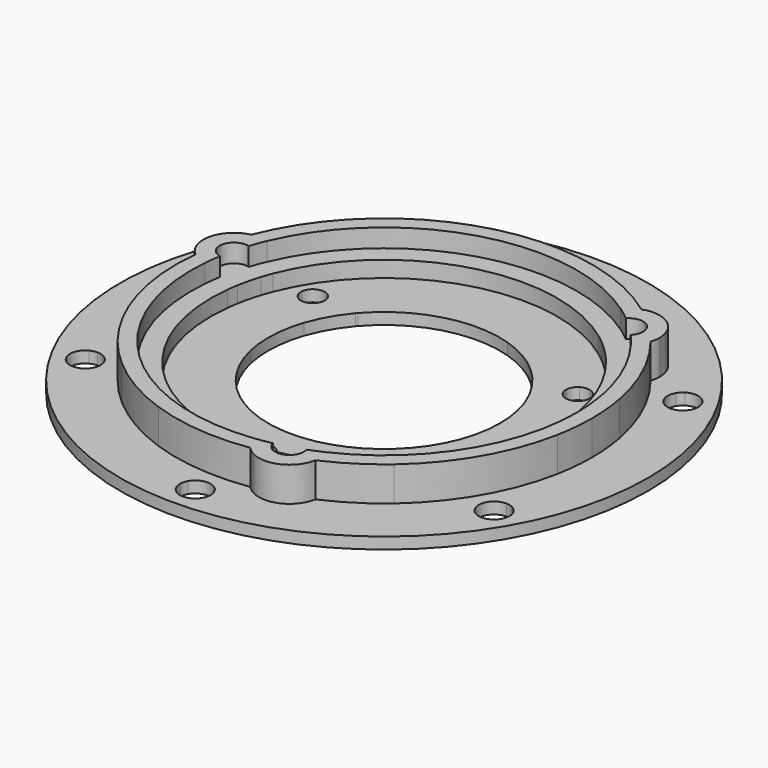
from build123d import *

# Parameters (mm, degrees)
F1_DEPTH = 1.5
F2_DEPTH = 3.6
F3_DEPTH = 6
F0_R     = 34.5
F4_DEPTH = 1.5


with BuildPart() as f1:
    # F0 (on Top) → F1 (new body)
    with BuildSketch(Plane.XY):
        with BuildLine():
            ThreePointArc((18.0429103508, 8.628637556), (19.504591857, 4.423900597), (20, 0))
            ThreePointArc((20, 0), (16.8844767064, -10.7198155932), (8.5085553649, -18.0998476679))
            Line((8.5085553649, -18.0998476679), (7.9590402698, -20.3249343561))
            ThreePointArc((7.9590402698, -20.3249343561), (8.5158791699, -20.5066268811), (9.0402136666, -20.767692141))
            ThreePointArc((9.0402136666, -20.767692141), (18.9444363805, -12.4149438269), (22.65, 0))
            ThreePointArc((22.65, 0), (21.3684761256, 7.5107075612), (17.6689202587, 14.1715121597))
            ThreePointArc((17.6689202587, 14.1715121597), (17.0833337399, 14.1845568281), (16.5059305148, 14.2829806566))
            Line((16.5059305148, 14.2829806566), (15.9564154197, 12.0578939684))
            ThreePointArc((15.9564154197, 12.0578939684), (16.2295386456, 11.6876890509), (16.4940744989, 11.311299944))
            ThreePointArc((16.4940744989, 11.311299944), (18.0693498333, 11.357105752), (18.8705080757, 10))
            ThreePointArc((18.8705080757, 10), (18.6475769372, 9.199132822), (18.0429103508, 8.628637556))
        make_face()
        with BuildLine():
            ThreePointArc((-16.4940744989, 11.311299944), (-3.5994314235, 19.6734362384), (11.4206502026, 16.4185489295))
            Line((11.4206502026, 16.4185489295), (13.6223893478, 17.0551982414))
            ThreePointArc((13.6223893478, 17.0551982414), (13.50132024, 17.6282811373), (13.4652421387, 18.2129007614))
            ThreePointArc((13.4652421387, 18.2129007614), (-6.2916666667, 21.7586173861), (-21.1073496697, 8.2159777216))
            ThreePointArc((-21.1073496697, 8.2159777216), (-20.8258534245, 7.7023225861), (-20.6223893478, 7.1530648107))
            Line((-20.6223893478, 7.1530648107), (-18.4206502026, 7.7897141226))
            ThreePointArc((-18.4206502026, 7.7897141226), (-18.2366049524, 8.2113482334), (-18.0429103508, 8.628637556))
            ThreePointArc((-18.0429103508, 8.628637556), (-18.6628474516, 10.775), (-16.4940744989, 11.311299944))
        make_face()
        with BuildLine():
            Line((4.5809919289, 14.4408106749), (11.4206502026, 16.4185489295))
            ThreePointArc((11.4206502026, 16.4185489295), (-3.5994314235, 19.6734362384), (-16.4940744989, 11.311299944))
            ThreePointArc((-16.4940744989, 11.311299944), (-15.9634023237, 10.7488417577), (-15.7705080757, 10))
            Line((-15.7705080757, 10), (-11.380795227, 10))
            ThreePointArc((-11.380795227, 10), (-4.0607303636, 14.595648972), (4.5809919289, 14.4408106749))
        make_face()
        with BuildLine():
            Line((-21.5814296176, 3.2697361147), (-19.9292055675, 1.6812987385))
            ThreePointArc((-19.9292055675, 1.6812987385), (-19.4166434799, 4.7952013489), (-18.4206502026, 7.7897141226))
            Line((-18.4206502026, 7.7897141226), (-20.6223893478, 7.1530648107))
            ThreePointArc((-20.6223893478, 7.1530648107), (-20.5045209524, 6.6030571894), (-20.4649707846, 6.0419536996))
            ThreePointArc((-20.4649707846, 6.0419536996), (-20.7545688746, 4.5476586598), (-21.5814296176, 3.2697361147))
        make_face()
        with BuildLine():
            Line((4.1164588329, -21.4360454672), (2.4642347829, -19.847608091))
            ThreePointArc((2.4642347829, -19.847608091), (2.0070663068, -19.8990372843), (1.5488358519, -19.9399375))
            ThreePointArc((1.5488358519, -19.9399375), (1.5497089356, -19.9699631096), (1.55, -20))
            ThreePointArc((1.55, -20), (-0.0300368904, -21.5497089356), (-1.5488358519, -19.9399375))
            ThreePointArc((-1.5488358519, -19.9399375), (-15.2379798505, -12.9539171711), (-19.9292055675, 1.6812987385))
            Line((-19.9292055675, 1.6812987385), (-21.5814296176, 3.2697361147))
            ThreePointArc((-21.5814296176, 3.2697361147), (-22.0171994099, 2.8783457439), (-22.5054558054, 2.5547913796))
            ThreePointArc((-22.5054558054, 2.5547913796), (-15.6976820743, -16.3280518585), (3.438429411, -22.3874898813))
            ThreePointArc((3.438429411, -22.3874898813), (3.7425196846, -21.8868794141), (4.1164588329, -21.4360454672))
        make_face()
        with BuildLine():
            ThreePointArc((-19.9292055675, 1.6812987385), (-15.2379798505, -12.9539171711), (-1.5488358519, -19.9399375))
            ThreePointArc((-1.5488358519, -19.9399375), (-1.3270688615, -19.199132822), (-0.775, -18.6576606241))
            Line((-0.775, -18.6576606241), (-2.9698564243, -14.8560577819))
            ThreePointArc((-2.9698564243, -14.8560577819), (-10.6098376127, -10.8145201388), (-14.7966048601, -3.2531499524))
            Line((-14.7966048601, -3.2531499524), (-19.9292055675, 1.6812987385))
        make_face()
        with BuildLine():
            Line((-16.384349446, 8.3785256894), (-14.3506516514, 4.8560577819))
            ThreePointArc((-14.3506516514, 4.8560577819), (-13.1963246365, 7.4417414688), (-11.5809919289, 9.7674523773))
            Line((-11.5809919289, 9.7674523773), (-16.384349446, 8.3785256894))
        make_face()
        with BuildLine():
            Line((-11.380795227, 10), (-15.7705080757, 10))
            ThreePointArc((-15.7705080757, 10), (-15.9781686998, 9.225), (-16.5455080757, 8.6576606241))
            Line((-16.5455080757, 8.6576606241), (-16.384349446, 8.3785256894))
            Line((-16.384349446, 8.3785256894), (-11.5809919289, 9.7674523773))
            ThreePointArc((-11.5809919289, 9.7674523773), (-11.4814823498, 9.8842330533), (-11.380795227, 10))
        make_face()
        with BuildLine():
            ThreePointArc((-18.4206502026, 7.7897141226), (-19.4166434799, 4.7952013489), (-19.9292055675, 1.6812987385))
            Line((-19.9292055675, 1.6812987385), (-14.7966048601, -3.2531499524))
            ThreePointArc((-14.7966048601, -3.2531499524), (-15.1271429244, 0.8318935891), (-14.3506516514, 4.8560577819))
            Line((-14.3506516514, 4.8560577819), (-16.384349446, 8.3785256894))
            Line((-16.384349446, 8.3785256894), (-18.4206502026, 7.7897141226))
        make_face()
        with BuildLine():
            ThreePointArc((2.4642347829, -19.847608091), (5.5555555556, -19.2129071842), (8.5085553649, -18.0998476679))
            Line((8.5085553649, -18.0998476679), (10.2156129312, -11.1876607224))
            ThreePointArc((10.2156129312, -11.1876607224), (6.8431304808, -13.5164368538), (2.9698564243, -14.8560577819))
            Line((2.9698564243, -14.8560577819), (0.9361586297, -18.3785256894))
            Line((0.9361586297, -18.3785256894), (2.4642347829, -19.847608091))
        make_face()
        with BuildLine():
            Line((-2.6683659245, -14.9131594001), (0.9361586297, -18.3785256894))
            Line((0.9361586297, -18.3785256894), (2.9698564243, -14.8560577819))
            ThreePointArc((2.9698564243, -14.8560577819), (0.1534251579, -15.1492231062), (-2.6683659245, -14.9131594001))
        make_face()
        with BuildLine():
            Line((0.775, -18.6576606241), (0.9361586297, -18.3785256894))
            Line((0.9361586297, -18.3785256894), (-2.6683659245, -14.9131594001))
            ThreePointArc((-2.6683659245, -14.9131594001), (-2.8192557462, -14.8853719147), (-2.9698564243, -14.8560577819))
            Line((-2.9698564243, -14.8560577819), (-0.775, -18.6576606241))
            ThreePointArc((-0.775, -18.6576606241), (0, -18.45), (0.775, -18.6576606241))
        make_face()
        with BuildLine():
            ThreePointArc((1.5488358519, -19.9399375), (2.0070663068, -19.8990372843), (2.4642347829, -19.847608091))
            Line((2.4642347829, -19.847608091), (0.9361586297, -18.3785256894))
            Line((0.9361586297, -18.3785256894), (0.775, -18.6576606241))
            ThreePointArc((0.775, -18.6576606241), (1.3270688615, -19.199132822), (1.5488358519, -19.9399375))
        make_face()
        with BuildLine():
            Line((15.4481908163, 10), (15.9564154197, 12.0578939684))
            ThreePointArc((15.9564154197, 12.0578939684), (13.8610879243, 14.4177058354), (11.4206502026, 16.4185489295))
            Line((11.4206502026, 16.4185489295), (4.5809919289, 14.4408106749))
            ThreePointArc((4.5809919289, 14.4408106749), (8.2840124436, 12.6845432647), (11.380795227, 10))
            Line((11.380795227, 10), (15.4481908163, 10))
        make_face()
        with BuildLine():
            ThreePointArc((8.5085553649, -18.0998476679), (16.8844767064, -10.7198155932), (20, 0))
            ThreePointArc((20, 0), (19.504591857, 4.423900597), (18.0429103508, 8.628637556))
            ThreePointArc((18.0429103508, 8.628637556), (17.2904711853, 8.4502910644), (16.5455080757, 8.6576606241))
            Line((16.5455080757, 8.6576606241), (14.3506516514, 4.8560577819))
            ThreePointArc((14.3506516514, 4.8560577819), (14.9488272536, 2.4607039117), (15.15, 0))
            ThreePointArc((15.15, 0), (13.8616203221, -6.1137535153), (10.2156129312, -11.1876607224))
            Line((10.2156129312, -11.1876607224), (8.5085553649, -18.0998476679))
        make_face()
        with BuildLine():
            Line((14.2493578534, 5.1457070229), (15.4481908163, 10))
            Line((15.4481908163, 10), (11.380795227, 10))
            ThreePointArc((11.380795227, 10), (13.0428994786, 7.7074816374), (14.2493578534, 5.1457070229))
        make_face()
        with BuildLine():
            Line((14.3506516514, 4.8560577819), (16.5455080757, 8.6576606241))
            ThreePointArc((16.5455080757, 8.6576606241), (15.9781686998, 9.225), (15.7705080757, 10))
            Line((15.7705080757, 10), (15.4481908163, 10))
            Line((15.4481908163, 10), (14.2493578534, 5.1457070229))
            ThreePointArc((14.2493578534, 5.1457070229), (14.300738096, 5.0011388614), (14.3506516514, 4.8560577819))
        make_face()
        with BuildLine():
            ThreePointArc((15.7705080757, 10), (15.9634023237, 10.7488417577), (16.4940744989, 11.311299944))
            ThreePointArc((16.4940744989, 11.311299944), (16.2295386456, 11.6876890509), (15.9564154197, 12.0578939684))
            Line((15.9564154197, 12.0578939684), (15.4481908163, 10))
            Line((15.4481908163, 10), (15.7705080757, 10))
        make_face()
        with BuildLine():
            ThreePointArc((-16.5455080757, 8.6576606241), (-17.2904711853, 8.4502910644), (-18.0429103508, 8.628637556))
            ThreePointArc((-18.0429103508, 8.628637556), (-18.2366049524, 8.2113482334), (-18.4206502026, 7.7897141226))
            Line((-18.4206502026, 7.7897141226), (-16.384349446, 8.3785256894))
            Line((-16.384349446, 8.3785256894), (-16.5455080757, 8.6576606241))
        make_face()
        with BuildLine():
            ThreePointArc((-22.3008890796, 3.9614197276), (-22.4142094734, 3.259710675), (-22.5054558054, 2.5547913796))
            ThreePointArc((-22.5054558054, 2.5547913796), (-22.0171994099, 2.8783457439), (-21.5814296176, 3.2697361147))
            Line((-21.5814296176, 3.2697361147), (-22.3008890796, 3.9614197276))
        make_face()
        with BuildLine():
            ThreePointArc((-21.1073496697, 8.2159777216), (-21.3547575081, 7.5496246113), (-21.581134659, 6.875836446))
            Line((-21.581134659, 6.875836446), (-20.6223893478, 7.1530648107))
            ThreePointArc((-20.6223893478, 7.1530648107), (-20.8258534245, 7.7023225861), (-21.1073496697, 8.2159777216))
        make_face()
        with BuildLine():
            ThreePointArc((-21.581134659, 6.875836446), (-21.9893487409, 5.4305655276), (-22.3008890796, 3.9614197276))
            Line((-22.3008890796, 3.9614197276), (-21.5814296176, 3.2697361147))
            ThreePointArc((-21.5814296176, 3.2697361147), (-20.7545688746, 4.5476586598), (-20.4649707846, 6.0419536996))
            ThreePointArc((-20.4649707846, 6.0419536996), (-20.5045209524, 6.6030571894), (-20.6223893478, 7.1530648107))
            Line((-20.6223893478, 7.1530648107), (-21.581134659, 6.875836446))
        make_face()
        with BuildLine():
            Line((7.9590402698, -20.3249343561), (8.5085553649, -18.0998476679))
            ThreePointArc((8.5085553649, -18.0998476679), (5.5555555556, -19.2129071842), (2.4642347829, -19.847608091))
            Line((2.4642347829, -19.847608091), (4.1164588329, -21.4360454672))
            ThreePointArc((4.1164588329, -21.4360454672), (5.8888888889, -20.3656816153), (7.9590402698, -20.3249343561))
        make_face()
        with BuildLine():
            Line((7.7197544207, -21.2938463337), (7.9590402698, -20.3249343561))
            ThreePointArc((7.9590402698, -20.3249343561), (5.8888888889, -20.3656816153), (4.1164588329, -21.4360454672))
            Line((4.1164588329, -21.4360454672), (4.835918295, -22.1277290801))
            ThreePointArc((4.835918295, -22.1277290801), (6.2916666667, -21.7586173861), (7.7197544207, -21.2938463337))
        make_face()
        with BuildLine():
            ThreePointArc((9.0402136666, -20.767692141), (8.5158791699, -20.5066268811), (7.9590402698, -20.3249343561))
            Line((7.9590402698, -20.3249343561), (7.7197544207, -21.2938463337))
            ThreePointArc((7.7197544207, -21.2938463337), (8.3841124832, -21.0411301472), (9.0402136666, -20.767692141))
        make_face()
        with BuildLine():
            Line((4.835918295, -22.1277290801), (4.1164588329, -21.4360454672))
            ThreePointArc((4.1164588329, -21.4360454672), (3.7425196846, -21.8868794141), (3.438429411, -22.3874898813))
            ThreePointArc((3.438429411, -22.3874898813), (4.1392120516, -22.2685747993), (4.835918295, -22.1277290801))
        make_face()
        with BuildLine():
            ThreePointArc((11.4206502026, 16.4185489295), (13.8610879243, 14.4177058354), (15.9564154197, 12.0578939684))
            Line((15.9564154197, 12.0578939684), (16.5059305148, 14.2829806566))
            ThreePointArc((16.5059305148, 14.2829806566), (14.6927531998, 15.2827681855), (13.6223893478, 17.0551982414))
            Line((13.6223893478, 17.0551982414), (11.4206502026, 16.4185489295))
        make_face()
        with BuildLine():
            ThreePointArc((13.6223893478, 17.0551982414), (14.6927531998, 15.2827681855), (16.5059305148, 14.2829806566))
            Line((16.5059305148, 14.2829806566), (16.745216364, 15.2518926342))
            ThreePointArc((16.745216364, 15.2518926342), (15.6976820743, 16.3280518585), (14.581134659, 17.3324266061))
            Line((14.581134659, 17.3324266061), (13.6223893478, 17.0551982414))
        make_face()
        with BuildLine():
            Line((16.745216364, 15.2518926342), (16.5059305148, 14.2829806566))
            ThreePointArc((16.5059305148, 14.2829806566), (17.0833337399, 14.1845568281), (17.6689202587, 14.1715121597))
            ThreePointArc((17.6689202587, 14.1715121597), (17.2155454564, 14.718950188), (16.745216364, 15.2518926342))
        make_face()
        with BuildLine():
            ThreePointArc((13.4652421387, 18.2129007614), (13.50132024, 17.6282811373), (13.6223893478, 17.0551982414))
            Line((13.6223893478, 17.0551982414), (14.581134659, 17.3324266061))
            ThreePointArc((14.581134659, 17.3324266061), (14.0300969902, 17.7814194722), (13.4652421387, 18.2129007614))
        make_face()
    extrude(amount=F1_DEPTH)

    # F0 (on Top) → F2 (join)
    with BuildSketch(Plane.XY):
        with BuildLine():
            ThreePointArc((-21.1073496697, 8.2159777216), (-6.2916666667, 21.7586173861), (13.4652421387, 18.2129007614))
            ThreePointArc((13.4652421387, 18.2129007614), (13.7060534314, 19.5339863363), (14.3705081421, 20.7009298279))
            ThreePointArc((14.3705081421, 20.7009298279), (-7, 24.2082630521), (-23.200755005, 9.8369185825))
            ThreePointArc((-23.200755005, 9.8369185825), (-22.0160513518, 9.2046730376), (-21.1073496697, 8.2159777216))
        make_face()
        with BuildLine():
            ThreePointArc((22.65, 0), (18.9444363805, -12.4149438269), (9.0402136666, -20.767692141))
            ThreePointArc((9.0402136666, -20.767692141), (10.0639016887, -21.6367836254), (10.7422770419, -22.7956900303))
            ThreePointArc((10.7422770419, -22.7956900303), (21.2808056879, -13.496937033), (25.2, 0))
            ThreePointArc((25.2, 0), (23.8961173836, 8.000973315), (20.1193988899, 15.1739839301))
            ThreePointArc((20.1193988899, 15.1739839301), (18.97950636, 14.4641232428), (17.6689202587, 14.1715121597))
            ThreePointArc((17.6689202587, 14.1715121597), (21.3684761256, 7.5107075612), (22.65, 0))
        make_face()
        with BuildLine():
            ThreePointArc((3.0813561151, -25.0109025125), (3.0365449918, -23.6687962805), (3.438429411, -22.3874898813))
            ThreePointArc((3.438429411, -22.3874898813), (-15.6976820743, -16.3280518585), (-22.5054558054, 2.5547913796))
            ThreePointArc((-22.5054558054, 2.5547913796), (-23.7699551202, 2.1027972891), (-25.1127851839, 2.0947602024))
            ThreePointArc((-25.1127851839, 2.0947602024), (-17.4649707846, -18.1663093525), (3.0813561151, -25.0109025125))
        make_face()
        with BuildLine():
            ThreePointArc((13.4652421387, 18.2129007614), (14.0300969902, 17.7814194722), (14.581134659, 17.3324266061))
            Line((14.581134659, 17.3324266061), (15.6877768701, 17.6524204637))
            ThreePointArc((15.6877768701, 17.6524204637), (15.6610918434, 18.5768221605), (16.0851686713, 19.3986429633))
            ThreePointArc((16.0851686713, 19.3986429633), (15.2417535182, 20.0681077755), (14.3705081421, 20.7009298279))
            ThreePointArc((14.3705081421, 20.7009298279), (13.7060534314, 19.5339863363), (13.4652421387, 18.2129007614))
        make_face()
        with BuildLine():
            ThreePointArc((17.4649707846, 18.1663093525), (18.1200199464, 17.5129916673), (18.7506467602, 16.836069793))
            ThreePointArc((18.7506467602, 16.836069793), (19.1680563014, 17.4438138698), (19.3149707846, 18.1663093525))
            ThreePointArc((19.3149707846, 18.1663093525), (18.1244653223, 19.8947673228), (16.0851686713, 19.3986429633))
            ThreePointArc((16.0851686713, 19.3986429633), (16.7863821567, 18.7951423003), (17.4649707846, 18.1663093525))
        make_face()
        with BuildLine():
            ThreePointArc((16.745216364, 15.2518926342), (17.2155454564, 14.718950188), (17.6689202587, 14.1715121597))
            ThreePointArc((17.6689202587, 14.1715121597), (18.97950636, 14.4641232428), (20.1193988899, 15.1739839301))
            ThreePointArc((20.1193988899, 15.1739839301), (19.4527824376, 16.0196521634), (18.7506467602, 16.836069793))
            ThreePointArc((18.7506467602, 16.836069793), (17.9461504413, 16.3799817964), (17.0214146599, 16.3702698307))
            Line((17.0214146599, 16.3702698307), (16.745216364, 15.2518926342))
        make_face()
        with BuildLine():
            Line((17.4649707846, 18.1663093525), (17.0214146599, 16.3702698307))
            ThreePointArc((17.0214146599, 16.3702698307), (17.9461504413, 16.3799817964), (18.7506467602, 16.836069793))
            ThreePointArc((18.7506467602, 16.836069793), (18.1200199464, 17.5129916673), (17.4649707846, 18.1663093525))
        make_face()
        with BuildLine():
            ThreePointArc((15.6877768701, 17.6524204637), (16.1828201516, 16.8326715628), (17.0214146599, 16.3702698307))
            Line((17.0214146599, 16.3702698307), (17.4649707846, 18.1663093525))
            Line((17.4649707846, 18.1663093525), (15.6877768701, 17.6524204637))
        make_face()
        with BuildLine():
            ThreePointArc((16.0851686713, 19.3986429633), (15.6610918434, 18.5768221605), (15.6877768701, 17.6524204637))
            Line((15.6877768701, 17.6524204637), (17.4649707846, 18.1663093525))
            ThreePointArc((17.4649707846, 18.1663093525), (16.7863821567, 18.7951423003), (16.0851686713, 19.3986429633))
        make_face()
        with BuildLine():
            ThreePointArc((14.581134659, 17.3324266061), (15.6976820743, 16.3280518585), (16.745216364, 15.2518926342))
            Line((16.745216364, 15.2518926342), (17.0214146599, 16.3702698307))
            ThreePointArc((17.0214146599, 16.3702698307), (16.1828201516, 16.8326715628), (15.6877768701, 17.6524204637))
            Line((15.6877768701, 17.6524204637), (14.581134659, 17.3324266061))
        make_face()
        with BuildLine():
            ThreePointArc((8.7571332695, -23.6294861751), (7.8838796215, -23.9350045355), (7, -24.2082630521))
            ThreePointArc((7, -24.2082630521), (6.106685707, -24.4488934244), (5.2051407605, -24.6565713282))
            ThreePointArc((5.2051407605, -24.6565713282), (7.2258433162, -26.0444261158), (8.85, -24.2082630521))
            ThreePointArc((8.85, -24.2082630521), (8.8266357804, -23.9151730903), (8.7571332695, -23.6294861751))
        make_face()
        with BuildLine():
            Line((5.6663622102, -22.9261124191), (4.835918295, -22.1277290801))
            ThreePointArc((4.835918295, -22.1277290801), (4.1392120516, -22.2685747993), (3.438429411, -22.3874898813))
            ThreePointArc((3.438429411, -22.3874898813), (3.0365449918, -23.6687962805), (3.0813561151, -25.0109025125))
            ThreePointArc((3.0813561151, -25.0109025125), (4.1470345145, -24.8564298469), (5.2051407605, -24.6565713282))
            ThreePointArc((5.2051407605, -24.6565713282), (5.2124051285, -23.7318130805), (5.6663622102, -22.9261124191))
        make_face()
        with BuildLine():
            Line((7.4435561248, -22.4122235302), (7.7197544207, -21.2938463337))
            ThreePointArc((7.7197544207, -21.2938463337), (6.2916666667, -21.7586173861), (4.835918295, -22.1277290801))
            Line((4.835918295, -22.1277290801), (5.6663622102, -22.9261124191))
            ThreePointArc((5.6663622102, -22.9261124191), (6.4861111111, -22.4310691376), (7.4435561248, -22.4122235302))
        make_face()
        with BuildLine():
            Line((7, -24.2082630521), (7.4435561248, -22.4122235302))
            ThreePointArc((7.4435561248, -22.4122235302), (6.4861111111, -22.4310691376), (5.6663622102, -22.9261124191))
            Line((5.6663622102, -22.9261124191), (7, -24.2082630521))
        make_face()
        with BuildLine():
            Line((7, -24.2082630521), (5.6663622102, -22.9261124191))
            ThreePointArc((5.6663622102, -22.9261124191), (5.2124051285, -23.7318130805), (5.2051407605, -24.6565713282))
            ThreePointArc((5.2051407605, -24.6565713282), (6.106685707, -24.4488934244), (7, -24.2082630521))
        make_face()
        with BuildLine():
            ThreePointArc((8.7571332695, -23.6294861751), (8.2574539909, -22.8513144677), (7.4435561248, -22.4122235302))
            Line((7.4435561248, -22.4122235302), (7, -24.2082630521))
            ThreePointArc((7, -24.2082630521), (7.8838796215, -23.9350045355), (8.7571332695, -23.6294861751))
        make_face()
        with BuildLine():
            ThreePointArc((9.0402136666, -20.767692141), (8.3841124832, -21.0411301472), (7.7197544207, -21.2938463337))
            Line((7.7197544207, -21.2938463337), (7.4435561248, -22.4122235302))
            ThreePointArc((7.4435561248, -22.4122235302), (8.2574539909, -22.8513144677), (8.7571332695, -23.6294861751))
            ThreePointArc((8.7571332695, -23.6294861751), (9.7586143804, -23.2337996328), (10.7422770419, -22.7956900303))
            ThreePointArc((10.7422770419, -22.7956900303), (10.0639016887, -21.6367836254), (9.0402136666, -20.767692141))
        make_face()
        with BuildLine():
            ThreePointArc((-23.9557875207, 7.8205015352), (-26.2610103065, 6.4855098243), (-24.8423019408, 4.2308432119))
            ThreePointArc((-24.8423019408, 4.2308432119), (-24.6702617782, 5.1398622351), (-24.4649707846, 6.0419536996))
            ThreePointArc((-24.4649707846, 6.0419536996), (-24.2267056534, 6.935901757), (-23.9557875207, 7.8205015352))
        make_face()
        with BuildLine():
            Line((-24.4649707846, 6.0419536996), (-22.6877768701, 6.5558425885))
            ThreePointArc((-22.6877768701, 6.5558425885), (-23.1585555698, 7.3518312841), (-23.9557875207, 7.8205015352))
            ThreePointArc((-23.9557875207, 7.8205015352), (-24.2267056534, 6.935901757), (-24.4649707846, 6.0419536996))
        make_face()
        with BuildLine():
            Line((-24.4649707846, 6.0419536996), (-23.1313329949, 4.7598030666))
            ThreePointArc((-23.1313329949, 4.7598030666), (-22.7489099012, 5.3508422437), (-22.6149707846, 6.0419536996))
            ThreePointArc((-22.6149707846, 6.0419536996), (-22.6332627372, 6.3014640636), (-22.6877768701, 6.5558425885))
            Line((-22.6877768701, 6.5558425885), (-24.4649707846, 6.0419536996))
        make_face()
        with BuildLine():
            ThreePointArc((-24.8423019408, 4.2308432119), (-23.9185458343, 4.2744923072), (-23.1313329949, 4.7598030666))
            Line((-23.1313329949, 4.7598030666), (-24.4649707846, 6.0419536996))
            ThreePointArc((-24.4649707846, 6.0419536996), (-24.6702617782, 5.1398622351), (-24.8423019408, 4.2308432119))
        make_face()
        with BuildLine():
            ThreePointArc((-25.1127851839, 2.0947602024), (-23.7699551202, 2.1027972891), (-22.5054558054, 2.5547913796))
            ThreePointArc((-22.5054558054, 2.5547913796), (-22.4142094734, 3.259710675), (-22.3008890796, 3.9614197276))
            Line((-22.3008890796, 3.9614197276), (-23.1313329949, 4.7598030666))
            ThreePointArc((-23.1313329949, 4.7598030666), (-23.9185458343, 4.2744923072), (-24.8423019408, 4.2308432119))
            ThreePointArc((-24.8423019408, 4.2308432119), (-25.0003678986, 3.1656918572), (-25.1127851839, 2.0947602024))
        make_face()
        with BuildLine():
            Line((-23.1313329949, 4.7598030666), (-22.3008890796, 3.9614197276))
            ThreePointArc((-22.3008890796, 3.9614197276), (-21.9893487409, 5.4305655276), (-21.581134659, 6.875836446))
            Line((-21.581134659, 6.875836446), (-22.6877768701, 6.5558425885))
            ThreePointArc((-22.6877768701, 6.5558425885), (-22.6332627372, 6.3014640636), (-22.6149707846, 6.0419536996))
            ThreePointArc((-22.6149707846, 6.0419536996), (-22.7489099012, 5.3508422437), (-23.1313329949, 4.7598030666))
        make_face()
        with BuildLine():
            Line((-22.6877768701, 6.5558425885), (-21.581134659, 6.875836446))
            ThreePointArc((-21.581134659, 6.875836446), (-21.3547575081, 7.5496246113), (-21.1073496697, 8.2159777216))
            ThreePointArc((-21.1073496697, 8.2159777216), (-22.0160513518, 9.2046730376), (-23.200755005, 9.8369185825))
            ThreePointArc((-23.200755005, 9.8369185825), (-23.5998169521, 8.8367776835), (-23.9557875207, 7.8205015352))
            ThreePointArc((-23.9557875207, 7.8205015352), (-23.1585555698, 7.3518312841), (-22.6877768701, 6.5558425885))
        make_face()
    extrude(amount=F2_DEPTH)

    # F0 (on Top) → F3 (join)
    with BuildSketch(Plane.XY):
        with BuildLine():
            ThreePointArc((-26.7168837067, 2.7360668002), (-25.9498691558, 2.3277812713), (-25.1127851839, 2.0947602024))
            ThreePointArc((-25.1127851839, 2.0947602024), (-25.0003678986, 3.1656918572), (-24.8423019408, 4.2308432119))
            ThreePointArc((-24.8423019408, 4.2308432119), (-26.2610103065, 6.4855098243), (-23.9557875207, 7.8205015352))
            ThreePointArc((-23.9557875207, 7.8205015352), (-23.5998169521, 8.8367776835), (-23.200755005, 9.8369185825))
            ThreePointArc((-23.200755005, 9.8369185825), (-24.2499604267, 10.0361708376), (-25.3144925053, 9.950701945))
            ThreePointArc((-25.3144925053, 9.950701945), (-26.1283236438, 7.5598084343), (-26.7168837068, 5.1037363764))
            Line((-26.7168837067, 5.1037363764), (-26.7168837067, 2.7360668002))
        make_face()
        with BuildLine():
            ThreePointArc((4.0396855828, -26.898344566), (3.4334013112, -26.0191671891), (3.0813561151, -25.0109025125))
            ThreePointArc((3.0813561151, -25.0109025125), (-17.4649707846, -18.1663093525), (-25.1127851839, 2.0947602024))
            ThreePointArc((-25.1127851839, 2.0947602024), (-25.9498691558, 2.3277812713), (-26.7168837067, 2.7360668002))
            Line((-26.7168837067, 2.7360668002), (-26.7168837067, -5.1037363764))
            ThreePointArc((-26.7168837068, -5.1037363764), (-23.5558909829, -13.6), (-17.7784072096, -20.5856318118))
            Line((-17.7784072096, -20.5856318118), (-8.9384764972, -25.6893681882))
            ThreePointArc((-8.9384764972, -25.6893681882), (-2.522884079, -27.0827446158), (4.0396855828, -26.898344566))
        make_face()
        with BuildLine():
            ThreePointArc((11, -24.2082630521), (10.9350418147, -23.49031743), (10.7422770419, -22.7956900303))
            ThreePointArc((10.7422770419, -22.7956900303), (9.7586143804, -23.2337996328), (8.7571332695, -23.6294861751))
            ThreePointArc((8.7571332695, -23.6294861751), (8.8266357804, -23.9151730903), (8.85, -24.2082630521))
            ThreePointArc((8.85, -24.2082630521), (7.2258433162, -26.0444261158), (5.2051407605, -24.6565713282))
            ThreePointArc((5.2051407605, -24.6565713282), (4.1470345145, -24.8564298469), (3.0813561151, -25.0109025125))
            ThreePointArc((3.0813561151, -25.0109025125), (3.4334013112, -26.0191671891), (4.0396855828, -26.898344566))
            ThreePointArc((4.0396855828, -26.898344566), (6.51717567, -26.407696251), (8.9384764972, -25.6893681882))
            Line((8.9384764972, -25.6893681882), (10.9889384979, -24.5055334001))
            ThreePointArc((10.9889384979, -24.5055334001), (10.9972336679, -24.3570010908), (11, -24.2082630521))
        make_face()
        with BuildLine():
            ThreePointArc((25.2, 0), (21.2808056879, -13.496937033), (10.7422770419, -22.7956900303))
            ThreePointArc((10.7422770419, -22.7956900303), (10.9350418147, -23.49031743), (11, -24.2082630521))
            ThreePointArc((11, -24.2082630521), (10.9972336679, -24.3570010908), (10.9889384979, -24.5055334001))
            Line((10.9889384979, -24.5055334001), (17.7784072096, -20.5856318118))
            ThreePointArc((17.7784072096, -20.5856318118), (23.5558909829, -13.6), (26.7168837068, -5.1037363764))
            Line((26.7168837067, -5.1037363764), (26.7168837067, 5.1037363764))
            ThreePointArc((26.7168837068, 5.1037363764), (24.715786881, 11.3564906047), (21.2748069225, 16.947642621))
            ThreePointArc((21.2748069225, 16.947642621), (20.8165591154, 15.9829963515), (20.1193988899, 15.1739839301))
            ThreePointArc((20.1193988899, 15.1739839301), (23.8961173836, 8.000973315), (25.2, 0))
        make_face()
        with BuildLine():
            ThreePointArc((18.7506467602, 16.836069793), (19.4527824376, 16.0196521634), (20.1193988899, 15.1739839301))
            ThreePointArc((20.1193988899, 15.1739839301), (20.8165591154, 15.9829963515), (21.2748069225, 16.947642621))
            ThreePointArc((21.2748069225, 16.947642621), (19.6111479738, 18.8478878167), (17.7784072096, 20.5856318118))
            Line((17.7784072096, 20.5856318118), (15.7279452088, 21.7694665999))
            ThreePointArc((15.7279452088, 21.7694665999), (14.9908522933, 21.3093552782), (14.3705081421, 20.7009298279))
            ThreePointArc((14.3705081421, 20.7009298279), (15.2417535182, 20.0681077755), (16.0851686713, 19.3986429633))
            ThreePointArc((16.0851686713, 19.3986429633), (18.1244653223, 19.8947673228), (19.3149707846, 18.1663093525))
            ThreePointArc((19.3149707846, 18.1663093525), (19.1680563014, 17.4438138698), (18.7506467602, 16.836069793))
        make_face()
        with BuildLine():
            ThreePointArc((-23.200755005, 9.8369185825), (-7, 24.2082630521), (14.3705081421, 20.7009298279))
            ThreePointArc((14.3705081421, 20.7009298279), (14.9908522933, 21.3093552782), (15.7279452088, 21.7694665999))
            Line((15.7279452088, 21.7694665999), (8.9384764972, 25.6893681882))
            ThreePointArc((8.9384764972, 25.6893681882), (0, 27.2), (-8.9384764972, 25.6893681882))
            Line((-8.9384764972, 25.6893681882), (-17.7784072096, 20.5856318118))
            ThreePointArc((-17.7784072096, 20.5856318118), (-22.192902802, 15.7262540111), (-25.3144925053, 9.950701945))
            ThreePointArc((-25.3144925053, 9.950701945), (-24.2499604267, 10.0361708376), (-23.200755005, 9.8369185825))
        make_face()
        with BuildLine():
            ThreePointArc((8.9384764972, -25.6893681882), (6.51717567, -26.407696251), (4.0396855828, -26.898344566))
            ThreePointArc((4.0396855828, -26.898344566), (4.6073701548, -27.4137774295), (5.2629744242, -27.8114202994))
            Line((5.2629744242, -27.8114202994), (8.9384764972, -25.6893681882))
        make_face()
        with BuildLine():
            Line((-26.7168837067, -5.1037363764), (-26.7168837067, 2.7360668002))
            ThreePointArc((-26.7168837067, 2.7360668002), (-26.8797138937, 2.8530642821), (-27.0364767247, 2.9780742632))
            ThreePointArc((-27.0364767247, 2.9780742632), (-27.178757426, -1.0747766182), (-26.7168837068, -5.1037363764))
        make_face()
        with BuildLine():
            ThreePointArc((-27.0364767247, 2.9780742632), (-26.8797138937, 2.8530642821), (-26.7168837067, 2.7360668002))
            Line((-26.7168837067, 2.7360668002), (-26.7168837067, 5.1037363764))
            ThreePointArc((-26.7168837068, 5.1037363764), (-26.89768669, 4.0440636405), (-27.0364767247, 2.9780742632))
        make_face()
        with BuildLine():
            ThreePointArc((-26.7168837067, 9.3478405989), (-28.4599455246, 6.2423952804), (-27.0364767247, 2.9780742632))
            ThreePointArc((-27.0364767247, 2.9780742632), (-26.89768669, 4.0440636405), (-26.7168837068, 5.1037363764))
            Line((-26.7168837067, 5.1037363764), (-26.7168837067, 9.3478405989))
        make_face()
        with BuildLine():
            Line((-26.7168837067, 9.3478405989), (-26.7168837067, 5.1037363764))
            ThreePointArc((-26.7168837068, 5.1037363764), (-26.1283236438, 7.5598084343), (-25.3144925053, 9.950701945))
            ThreePointArc((-25.3144925053, 9.950701945), (-26.0447127451, 9.7167891161), (-26.7168837067, 9.3478405989))
        make_face()
        with BuildLine():
            ThreePointArc((10.939150396, -24.903312804), (9.9465814978, -25.3161117968), (8.9384764972, -25.6893681882))
            Line((8.9384764972, -25.6893681882), (5.2629744242, -27.8114202994))
            ThreePointArc((5.2629744242, -27.8114202994), (8.823899869, -27.7682334548), (10.939150396, -24.903312804))
        make_face()
        with BuildLine():
            ThreePointArc((10.939150396, -24.903312804), (10.9690308, -24.7050472195), (10.9889384979, -24.5055334001))
            Line((10.9889384979, -24.5055334001), (8.9384764972, -25.6893681882))
            ThreePointArc((8.9384764972, -25.6893681882), (9.9465814978, -25.3161117968), (10.939150396, -24.903312804))
        make_face()
        with BuildLine():
            Line((15.7279452088, 21.7694665999), (17.7784072096, 20.5856318118))
            ThreePointArc((17.7784072096, 20.5856318118), (16.9511051921, 21.2720481563), (16.0973263286, 21.9252385408))
            ThreePointArc((16.0973263286, 21.9252385408), (15.9106830938, 21.8519829374), (15.7279452088, 21.7694665999))
        make_face()
        with BuildLine():
            ThreePointArc((16.0973263286, 21.9252385408), (16.9511051921, 21.2720481563), (17.7784072096, 20.5856318118))
            Line((17.7784072096, 20.5856318118), (21.4539092825, 18.4635797006))
            ThreePointArc((21.4539092825, 18.4635797006), (19.6360456555, 21.5258381744), (16.0973263286, 21.9252385408))
        make_face()
        with BuildLine():
            ThreePointArc((17.7784072096, 20.5856318118), (19.6111479738, 18.8478878167), (21.2748069225, 16.947642621))
            ThreePointArc((21.2748069225, 16.947642621), (21.4171438926, 17.5496021901), (21.4649707846, 18.1663093525))
            ThreePointArc((21.4649707846, 18.1663093525), (21.4622044525, 18.3150473913), (21.4539092825, 18.4635797006))
            Line((21.4539092825, 18.4635797006), (17.7784072096, 20.5856318118))
        make_face()
        with BuildLine():
            ThreePointArc((27.2, 0), (27.0789515752, 2.5632755584), (26.7168837068, 5.1037363764))
            Line((26.7168837067, 5.1037363764), (26.7168837067, -5.1037363764))
            ThreePointArc((26.7168837068, -5.1037363764), (27.0789515752, -2.5632755584), (27.2, 0))
        make_face()
        with BuildLine():
            ThreePointArc((-17.7784072096, -20.5856318118), (-13.6, -23.5558909829), (-8.9384764972, -25.6893681882))
            Line((-8.9384764972, -25.6893681882), (-17.7784072096, -20.5856318118))
        make_face()
        with BuildLine():
            Line((17.7784072096, -20.5856318118), (10.9889384979, -24.5055334001))
            ThreePointArc((10.9889384979, -24.5055334001), (10.9690308, -24.7050472195), (10.939150396, -24.903312804))
            ThreePointArc((10.939150396, -24.903312804), (14.5201625678, -23.0001060651), (17.7784072096, -20.5856318118))
        make_face()
        with BuildLine():
            ThreePointArc((-8.9384764972, 25.6893681882), (-13.6, 23.5558909829), (-17.7784072096, 20.5856318118))
            Line((-17.7784072096, 20.5856318118), (-8.9384764972, 25.6893681882))
        make_face()
        with BuildLine():
            Line((8.9384764972, 25.6893681882), (15.7279452088, 21.7694665999))
            ThreePointArc((15.7279452088, 21.7694665999), (15.9106830938, 21.8519829374), (16.0973263286, 21.9252385408))
            ThreePointArc((16.0973263286, 21.9252385408), (12.6585948582, 24.0748826833), (8.9384764972, 25.6893681882))
        make_face()
    extrude(amount=F3_DEPTH)

    # F0 (on Top) → F4 (join)
    with BuildSketch(Plane.XY):
        Circle(F0_R)
        with BuildLine():
            ThreePointArc((2, -30.85), (-0.0324191702, -32.8497372321), (-1.9989489974, -30.7851701783))
            ThreePointArc((-1.9989489974, -30.7851701783), (-15.425, -26.7168837067), (-25.6612649355, -17.1237257018))
            ThreePointArc((-25.6612649355, -17.1237257018), (-28.4489345143, -16.425), (-27.6602139329, -13.6614444765))
            ThreePointArc((-27.6602139329, -13.6614444765), (-30.85, 0), (-27.6602139329, 13.6614444765))
            ThreePointArc((-27.6602139329, 13.6614444765), (-28.4489345143, 16.425), (-25.6612649355, 17.1237257018))
            ThreePointArc((-25.6612649355, 17.1237257018), (-15.425, 26.7168837067), (-1.9989489974, 30.7851701783))
            ThreePointArc((-1.9989489974, 30.7851701783), (-0.0324191702, 32.8497372321), (2, 30.85))
            ThreePointArc((2, 30.85), (1.9997372321, 30.8175808298), (1.9989489974, 30.7851701783))
            ThreePointArc((1.9989489974, 30.7851701783), (15.425, 26.7168837067), (25.6612649355, 17.1237257018))
            ThreePointArc((25.6612649355, 17.1237257018), (27.6886764978, 17.173032829), (28.7168837067, 15.425))
            ThreePointArc((28.7168837067, 15.425), (28.4324973655, 14.397055559), (27.6602139329, 13.6614444765))
            ThreePointArc((27.6602139329, 13.6614444765), (30.0419714718, 7.0144458145), (30.85, 0))
            ThreePointArc((30.85, 0), (30.0419714718, -7.0144458145), (27.6602139329, -13.6614444765))
            ThreePointArc((27.6602139329, -13.6614444765), (28.4324973655, -14.397055559), (28.7168837067, -15.425))
            ThreePointArc((28.7168837067, -15.425), (27.6886764978, -17.173032829), (25.6612649355, -17.1237257018))
            ThreePointArc((25.6612649355, -17.1237257018), (15.425, -26.7168837067), (1.9989489974, -30.7851701783))
            ThreePointArc((1.9989489974, -30.7851701783), (1.9997372321, -30.8175808298), (2, -30.85))
        make_face(mode=Mode.SUBTRACT)
        with BuildLine():
            Line((-24.9848328992, 16.425), (-17.7784072096, 20.5856318118))
            ThreePointArc((-17.7784072096, 20.5856318118), (-13.6, 23.5558909829), (-8.9384764972, 25.6893681882))
            Line((-8.9384764972, 25.6893681882), (-1.7320508076, 29.85))
            ThreePointArc((-1.7320508076, 29.85), (-1.9232071396, 30.3011154054), (-1.9989489974, 30.7851701783))
            ThreePointArc((-1.9989489974, 30.7851701783), (-15.425, 26.7168837067), (-25.6612649355, 17.1237257018))
            ThreePointArc((-25.6612649355, 17.1237257018), (-25.2799321342, 16.8161039423), (-24.9848328992, 16.425))
        make_face()
        with BuildLine():
            ThreePointArc((-8.9384764972, 25.6893681882), (0, 27.2), (8.9384764972, 25.6893681882))
            Line((8.9384764972, 25.6893681882), (1.7320508076, 29.85))
            ThreePointArc((1.7320508076, 29.85), (0, 28.85), (-1.7320508076, 29.85))
            Line((-1.7320508076, 29.85), (-8.9384764972, 25.6893681882))
        make_face()
        with BuildLine():
            ThreePointArc((8.9384764972, 25.6893681882), (12.6585948582, 24.0748826833), (16.0973263286, 21.9252385408))
            ThreePointArc((16.0973263286, 21.9252385408), (19.6360456555, 21.5258381744), (21.4539092825, 18.4635797006))
            Line((21.4539092825, 18.4635797006), (24.9848328992, 16.425))
            ThreePointArc((24.9848328992, 16.425), (25.2799321342, 16.8161039423), (25.6612649355, 17.1237257018))
            ThreePointArc((25.6612649355, 17.1237257018), (15.425, 26.7168837067), (1.9989489974, 30.7851701783))
            ThreePointArc((1.9989489974, 30.7851701783), (1.9232071396, 30.3011154054), (1.7320508076, 29.85))
            Line((1.7320508076, 29.85), (8.9384764972, 25.6893681882))
        make_face()
        with BuildLine():
            ThreePointArc((21.4649707846, 18.1663093525), (21.4171438926, 17.5496021901), (21.2748069225, 16.947642621))
            ThreePointArc((21.2748069225, 16.947642621), (24.715786881, 11.3564906047), (26.7168837068, 5.1037363764))
            Line((26.7168837067, 5.1037363764), (26.7168837067, 13.425))
            ThreePointArc((26.7168837067, 13.425), (24.9848328992, 14.425), (24.9848328992, 16.425))
            Line((24.9848328992, 16.425), (21.4539092825, 18.4635797006))
            ThreePointArc((21.4539092825, 18.4635797006), (21.4622044525, 18.3150473913), (21.4649707846, 18.1663093525))
        make_face()
        with BuildLine():
            Line((26.7168837067, 13.425), (26.7168837067, 5.1037363764))
            ThreePointArc((26.7168837068, 5.1037363764), (27.0789515752, 2.5632755584), (27.2, 0))
            ThreePointArc((27.2, 0), (27.0789515752, -2.5632755584), (26.7168837068, -5.1037363764))
            Line((26.7168837067, -5.1037363764), (26.7168837067, -13.425))
            ThreePointArc((26.7168837067, -13.425), (27.2031392738, -13.4850114631), (27.6602139329, -13.6614444765))
            ThreePointArc((27.6602139329, -13.6614444765), (30.0419714718, -7.0144458145), (30.85, 0))
            ThreePointArc((30.85, 0), (30.0419714718, 7.0144458145), (27.6602139329, 13.6614444765))
            ThreePointArc((27.6602139329, 13.6614444765), (27.2031392738, 13.4850114631), (26.7168837067, 13.425))
        make_face()
        with BuildLine():
            ThreePointArc((26.7168837068, -5.1037363764), (23.5558909829, -13.6), (17.7784072096, -20.5856318118))
            Line((17.7784072096, -20.5856318118), (24.9848328992, -16.425))
            ThreePointArc((24.9848328992, -16.425), (24.9848328992, -14.425), (26.7168837067, -13.425))
            Line((26.7168837067, -13.425), (26.7168837067, -5.1037363764))
        make_face()
        with BuildLine():
            ThreePointArc((10.939150396, -24.903312804), (8.823899869, -27.7682334548), (5.2629744242, -27.8114202994))
            Line((5.2629744242, -27.8114202994), (1.7320508076, -29.85))
            ThreePointArc((1.7320508076, -29.85), (1.9232071396, -30.3011154054), (1.9989489974, -30.7851701783))
            ThreePointArc((1.9989489974, -30.7851701783), (15.425, -26.7168837067), (25.6612649355, -17.1237257018))
            ThreePointArc((25.6612649355, -17.1237257018), (25.2799321342, -16.8161039423), (24.9848328992, -16.425))
            Line((24.9848328992, -16.425), (17.7784072096, -20.5856318118))
            ThreePointArc((17.7784072096, -20.5856318118), (14.5201625678, -23.0001060651), (10.939150396, -24.903312804))
        make_face()
        with BuildLine():
            Line((-1.7320508076, -29.85), (-8.9384764972, -25.6893681882))
            ThreePointArc((-8.9384764972, -25.6893681882), (-13.6, -23.5558909829), (-17.7784072096, -20.5856318118))
            Line((-17.7784072096, -20.5856318118), (-24.9848328992, -16.425))
            ThreePointArc((-24.9848328992, -16.425), (-25.2799321342, -16.8161039423), (-25.6612649355, -17.1237257018))
            ThreePointArc((-25.6612649355, -17.1237257018), (-15.425, -26.7168837067), (-1.9989489974, -30.7851701783))
            ThreePointArc((-1.9989489974, -30.7851701783), (-1.9232071396, -30.3011154054), (-1.7320508076, -29.85))
        make_face()
        with BuildLine():
            ThreePointArc((5.2629744242, -27.8114202994), (4.6073701548, -27.4137774295), (4.0396855828, -26.898344566))
            ThreePointArc((4.0396855828, -26.898344566), (-2.522884079, -27.0827446158), (-8.9384764972, -25.6893681882))
            Line((-8.9384764972, -25.6893681882), (-1.7320508076, -29.85))
            ThreePointArc((-1.7320508076, -29.85), (0, -28.85), (1.7320508076, -29.85))
            Line((1.7320508076, -29.85), (5.2629744242, -27.8114202994))
        make_face()
        with BuildLine():
            ThreePointArc((-17.7784072096, -20.5856318118), (-23.5558909829, -13.6), (-26.7168837068, -5.1037363764))
            Line((-26.7168837067, -5.1037363764), (-26.7168837067, -13.425))
            ThreePointArc((-26.7168837067, -13.425), (-25.3026701444, -14.0107864376), (-24.7168837067, -15.425))
            ThreePointArc((-24.7168837067, -15.425), (-24.7850320542, -15.9426380902), (-24.9848328992, -16.425))
            Line((-24.9848328992, -16.425), (-17.7784072096, -20.5856318118))
        make_face()
        with BuildLine():
            ThreePointArc((-26.7168837068, -5.1037363764), (-27.178757426, -1.0747766182), (-27.0364767247, 2.9780742632))
            ThreePointArc((-27.0364767247, 2.9780742632), (-28.4599455246, 6.2423952804), (-26.7168837067, 9.3478405989))
            Line((-26.7168837067, 9.3478405989), (-26.7168837067, 13.425))
            ThreePointArc((-26.7168837067, 13.425), (-27.2031392738, 13.4850114631), (-27.6602139329, 13.6614444765))
            ThreePointArc((-27.6602139329, 13.6614444765), (-30.85, 0), (-27.6602139329, -13.6614444765))
            ThreePointArc((-27.6602139329, -13.6614444765), (-27.2031392738, -13.4850114631), (-26.7168837067, -13.425))
            Line((-26.7168837067, -13.425), (-26.7168837067, -5.1037363764))
        make_face()
        with BuildLine():
            Line((-26.7168837067, 13.425), (-26.7168837067, 9.3478405989))
            ThreePointArc((-26.7168837067, 9.3478405989), (-26.0447127451, 9.7167891161), (-25.3144925053, 9.950701945))
            ThreePointArc((-25.3144925053, 9.950701945), (-22.192902802, 15.7262540111), (-17.7784072096, 20.5856318118))
            Line((-17.7784072096, 20.5856318118), (-24.9848328992, 16.425))
            ThreePointArc((-24.9848328992, 16.425), (-24.7850320542, 15.9426380902), (-24.7168837067, 15.425))
            ThreePointArc((-24.7168837067, 15.425), (-25.3026701444, 14.0107864376), (-26.7168837067, 13.425))
        make_face()
    extrude(amount=F4_DEPTH)


solid = f1.part
